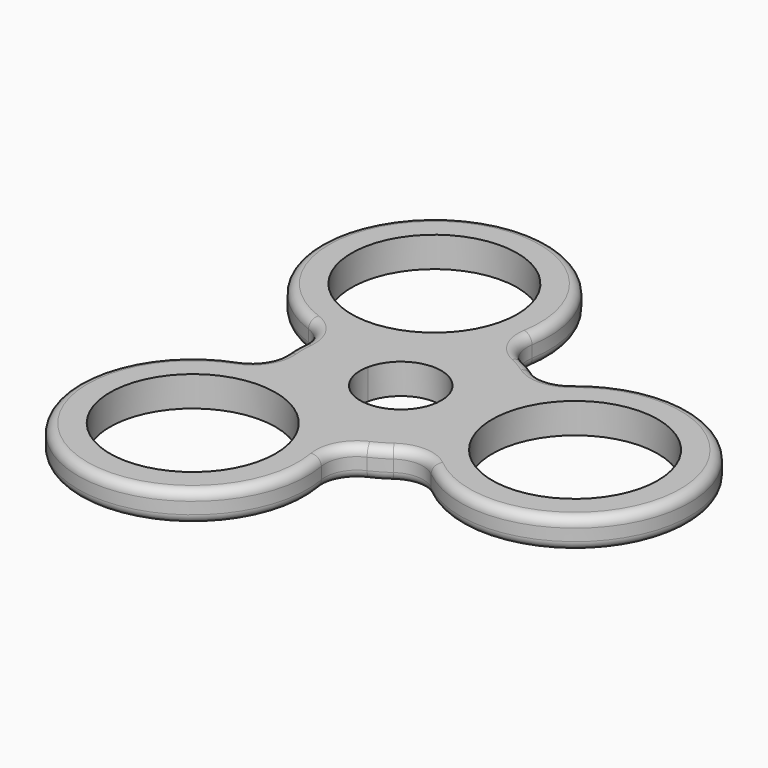
from build123d import *

# Parameters (mm, degrees)
F0_R     = 12.985
F1_DEPTH = 4.75
F2_R     = 1.448528


with BuildPart() as f1:
    # F0 (on Top) → F1 (new body)
    with BuildSketch(Plane.XY):
        with BuildLine():
            ThreePointArc((4.051086, -20.623472), (4.561749, -17.436115), (6.913593, -15.22504))
            ThreePointArc((6.913593, -15.22504), (8.361461, -14.481345), (9.730258, -13.60055))
            ThreePointArc((9.730258, -13.60055), (12.817634, -12.671995), (15.82996, -13.820906))
            ThreePointArc((15.82996, -13.820906), (45.299595, 0.019736), (15.82996, 13.860379))
            ThreePointArc((15.82996, 13.860379), (12.817634, 12.711468), (9.730258, 13.640022))
            ThreePointArc((9.730258, 13.640022), (8.368074, 14.517001), (6.927496, 15.258198))
            ThreePointArc((6.927496, 15.258198), (4.579656, 17.467667), (4.068479, 20.650873))
            ThreePointArc((4.068479, 20.650873), (-22.652686, 39.252004), (-19.904217, 6.81023))
            ThreePointArc((-19.904217, 6.81023), (-17.403068, 4.775935), (-16.663532, 1.637912))
            ThreePointArc((-16.663532, 1.637912), (-16.741924, 0.012102), (-16.662049, -1.613636))
            ThreePointArc((-16.662049, -1.613636), (-17.400974, -4.755931), (-19.905975, -6.791857))
            ThreePointArc((-19.905975, -6.791857), (-22.667697, -39.23853), (4.051086, -20.623472))
        make_face()
        with Locations((-13.675197, -23.663063)):
            Circle(F0_R, mode=Mode.SUBTRACT)
        with BuildLine():
            ThreePointArc((6.1699, 1.458743), (6.297331, 0.734314), (6.34, 0))
            ThreePointArc((6.34, 0), (-0.679811, -6.303448), (-6.194214, 1.351783))
            ThreePointArc((-6.194214, 1.351783), (-0.054998, 6.357494), (6.1699, 1.458743))
        make_face(mode=Mode.SUBTRACT)
        with Locations((-13.660186, 23.676537)):
            Circle(F0_R, mode=Mode.SUBTRACT)
        with Locations((27.314595, 0.019736)):
            Circle(F0_R, mode=Mode.SUBTRACT)
    extrude(amount=F1_DEPTH)

    # F2
    f2_edges = [f1.edges().sort_by_distance(p)[0] for p in [
        (-22.667697, -39.23853, 4.75),
        (45.299595, 0.019736, 0),
        (-17.400974, -4.755931, 0),
        (-22.667697, -39.23853, 0),
        (-16.741924, 0.012102, 0),
        (-17.403068, 4.775935, 0),
        (-22.652686, 39.252004, 0),
        (4.561749, -17.436115, 4.75),
        (8.361461, -14.481345, 4.75),
        (12.817634, -12.671995, 4.75),
        (12.817634, -12.671995, 0),
        (8.361461, -14.481345, 0),
        (4.561749, -17.436115, 0),
        (45.299595, 0.019736, 4.75),
        (12.817634, 12.711468, 4.75),
        (8.368074, 14.517001, 4.75),
        (-22.652686, 39.252004, 4.75),
        (4.579656, 17.467667, 4.75),
        (8.368074, 14.517001, 0),
        (4.579656, 17.467667, 0),
        (-16.741924, 0.012102, 4.75),
        (-17.400974, -4.755931, 4.75),
        (-17.403068, 4.775935, 4.75),
        (12.817634, 12.711468, 0),
    ]]
    fillet(f2_edges, radius=F2_R)


solid = f1.part
